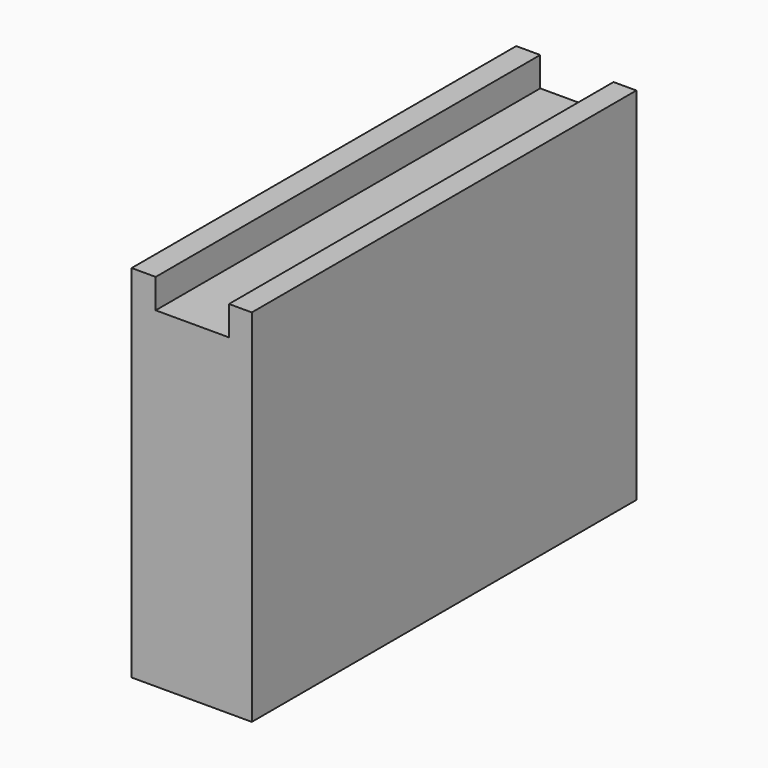
from build123d import *

# Parameters (mm, degrees)
F0_W     = 101.6
F0_H     = 6.21665
F0_H_2   = 69.98335
F1_DEPTH = 5.08
F2_DEPTH = 15.494
F3_START = 15.494
F3_DEPTH = 4.826


with BuildPart() as f1:
    # F0 (on Right) → F1 (new body)
    with BuildSketch(Plane.YZ):
        with Locations((6.5453828692, 24.245519595)):
            Rectangle(F0_W, F0_H)
        with Locations((6.5453828692, -13.854480405)):
            Rectangle(F0_W, F0_H_2)
    extrude(amount=-F1_DEPTH)

    # F0 (on Right) → F2 (join)
    with BuildSketch(Plane.YZ):
        with Locations((6.5453828692, -13.854480405)):
            Rectangle(F0_W, F0_H_2)
    extrude(amount=F2_DEPTH)

    # F0 (on Right) → F3 (join)
    with BuildSketch(Plane.YZ.offset(F3_START)):
        with Locations((6.5453828692, 24.245519595)):
            Rectangle(F0_W, F0_H)
        with Locations((6.5453828692, -13.854480405)):
            Rectangle(F0_W, F0_H_2)
    extrude(amount=F3_DEPTH)


solid = f1.part
